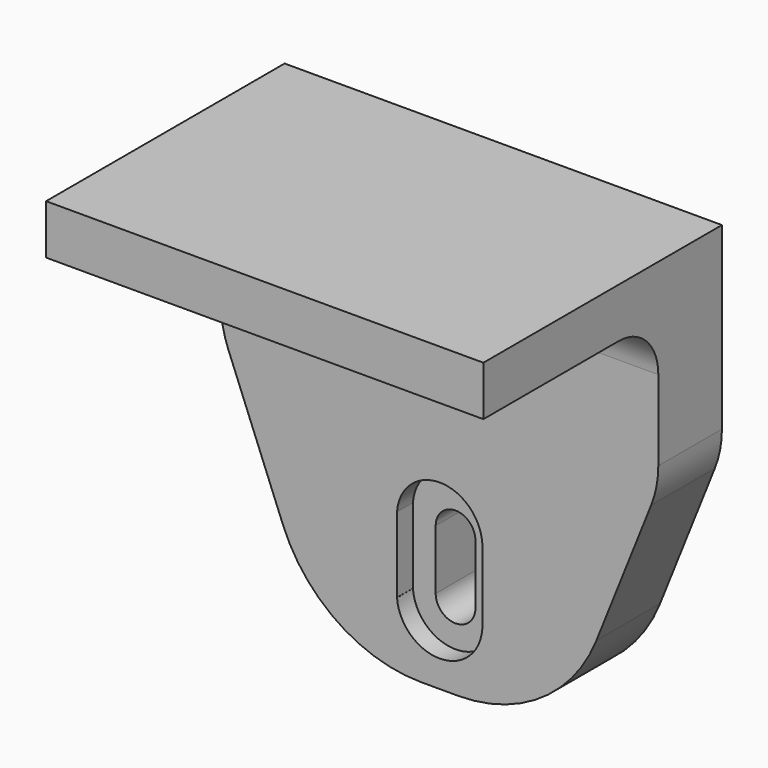
from build123d import *

# Parameters (mm, degrees)
BOX009_W                  = 8.6
BOX009_H                  = 14
BOX009_DEPTH              = 7.6
CYLINDER017_R             = 4.3
CYLINDER017_DEPTH         = 10
CYLINDER016_R             = 4.3
CYLINDER016_DEPTH         = 10
CYLINDER018_R             = 2
CYLINDER018_DEPTH         = 10
CYLINDER019_R             = 4.25
CYLINDER019_DEPTH         = 10
CYLINDER015_R             = 2
CYLINDER015_DEPTH         = 10
BOX008_W                  = 4
BOX008_H                  = 16
BOX008_DEPTH              = 6
BOX010_W                  = 15
BOX010_H                  = 8
BOX010_DEPTH              = 10
CYLINDER013_R             = 2
CYLINDER013_DEPTH         = 10
CYLINDER014_R             = 4.25
CYLINDER014_DEPTH         = 10
FUSION013_PLACEMENT_ANGLE = 180
CYLINDER010_R             = 4.25
CYLINDER010_DEPTH         = 10
CYLINDER011_R             = 2
CYLINDER011_DEPTH         = 10
CYLINDER012_R             = 4.25
CYLINDER012_DEPTH         = 10
EXTRUDE001_DEPTH          = 8
BOX007_W                  = 24
BOX007_H                  = 8
BOX007_DEPTH              = 45
BOX006_W                  = 44
BOX006_H                  = 8
BOX006_DEPTH              = 15
BOX005_W                  = 44
BOX005_H                  = 30
BOX005_DEPTH              = 5
FILLET003_R               = 5
FILLET005_R               = 15
FILLET004_R               = 10
CHAMFER004_SIZE           = 2.2
CHAMFER005_SIZE           = 2.2


with BuildPart() as cube009:
    # Box009 → Box009 (new body)
    with BuildSketch(Plane(origin=(17.7, 59, -33.3), x_dir=(1, 0, 0), z_dir=(0, 0, 1))):
        with Locations((4.3, 7)):
            Rectangle(BOX009_W, BOX009_H)
    extrude(amount=BOX009_DEPTH)


with BuildPart() as cylinder017:
    # Cylinder017 → Cylinder017 (new body)
    with BuildSketch(Plane(origin=(22, 73, -26), x_dir=(1, 0, 0), z_dir=(0, -1, 0))):
        Circle(CYLINDER017_R)
    extrude(amount=CYLINDER017_DEPTH)


with BuildPart() as obj1:
    # Cylinder016 → Cylinder016 (new body)
    with BuildSketch(Plane(origin=(22, 73, -33), x_dir=(1, 0, 0), z_dir=(0, -1, 0))):
        Circle(CYLINDER016_R)
    extrude(amount=CYLINDER016_DEPTH)

    # Fusion017: union Cube009, Cylinder017
    add(cube009.part)
    add(cylinder017.part)


with BuildPart() as obj1_1:
    # Fusion017 placement: moved
    add(obj1.part.moved(Location((0, 1, 0))))


with BuildPart() as cylinder018:
    # Cylinder018 → Cylinder018 (new body)
    with BuildSketch(Plane(origin=(22, 80, -33), x_dir=(1, 0, 0), z_dir=(0, -1, 0))):
        Circle(CYLINDER018_R)
    extrude(amount=CYLINDER018_DEPTH)


with BuildPart() as fusion018:
    # Cylinder019 → Cylinder019 (new body)
    with BuildSketch(Plane(origin=(22, 89, -33), x_dir=(1, 0, 0), z_dir=(0, -1, 0))):
        Circle(CYLINDER019_R)
    extrude(amount=CYLINDER019_DEPTH)

    # Fusion018: union Cylinder018
    add(cylinder018.part)


with BuildPart() as cylinder015:
    # Cylinder015 → Cylinder015 (new body)
    with BuildSketch(Plane(origin=(22, 80, -27), x_dir=(1, 0, 0), z_dir=(0, -1, 0))):
        Circle(CYLINDER015_R)
    extrude(amount=CYLINDER015_DEPTH)


with BuildPart() as obj2:
    # Box008 → Box008 (new body)
    with BuildSketch(Plane(origin=(20, 69, -33), x_dir=(1, 0, 0), z_dir=(0, 0, 1))):
        with Locations((2, 8)):
            Rectangle(BOX008_W, BOX008_H)
    extrude(amount=BOX008_DEPTH)

    # Fusion016: union Cylinder015
    add(cylinder015.part)

    # Fusion019: union Fusion018
    add(fusion018.part)


with BuildPart() as obj2_1:
    # Fusion019 placement: moved
    add(obj2.part.moved(Location((0, 2, 0))))


with BuildPart() as cube010:
    # Box010 → Box010 (new body)
    with BuildSketch(Plane(origin=(14, 72, -38), x_dir=(1, 0, 0), z_dir=(0, 0, 1))):
        with Locations((7.5, 4)):
            Rectangle(BOX010_W, BOX010_H)
    extrude(amount=BOX010_DEPTH)


with BuildPart() as cylinder013:
    # Cylinder013 → Cylinder013 (new body)
    with BuildSketch(Plane(origin=(22, 80, -33), x_dir=(1, 0, 0), z_dir=(0, -1, 0))):
        Circle(CYLINDER013_R)
    extrude(amount=CYLINDER013_DEPTH)


with BuildPart() as fusion013:
    # Cylinder014 → Cylinder014 (new body)
    with BuildSketch(Plane(origin=(22, 89, -33), x_dir=(1, 0, 0), z_dir=(0, -1, 0))):
        Circle(CYLINDER014_R)
    extrude(amount=CYLINDER014_DEPTH)

    # Fusion013: union Cylinder013
    add(cylinder013.part)


with BuildPart() as fusion013_1:
    # Fusion013 placement: moved
    add(fusion013.part.moved(Location((0, 152, -66))).rotate(Axis((0, 152, -66), (1, 0, 0)), FUSION013_PLACEMENT_ANGLE))


with BuildPart() as cylinder010:
    # Cylinder010 → Cylinder010 (new body)
    with BuildSketch(Plane(origin=(22, 80, -33), x_dir=(1, 0, 0), z_dir=(0, -1, 0))):
        Circle(CYLINDER010_R)
    extrude(amount=CYLINDER010_DEPTH)


with BuildPart() as cylinder011:
    # Cylinder011 → Cylinder011 (new body)
    with BuildSketch(Plane(origin=(22, 80, -33), x_dir=(1, 0, 0), z_dir=(0, -1, 0))):
        Circle(CYLINDER011_R)
    extrude(amount=CYLINDER011_DEPTH)


with BuildPart() as fusion010:
    # Cylinder012 → Cylinder012 (new body)
    with BuildSketch(Plane(origin=(22, 89, -33), x_dir=(1, 0, 0), z_dir=(0, -1, 0))):
        Circle(CYLINDER012_R)
    extrude(amount=CYLINDER012_DEPTH)

    # Fusion010: union Cylinder011
    add(cylinder011.part)


with BuildPart() as extrude001:
    # Sketch001 (on Face11 of Fusion012) → Extrude001 (new body)
    with BuildSketch(Plane(origin=(0, 80, 0), x_dir=(-1, 0, 0), z_dir=(0, 1, 0))):
        Polygon((-44, -15), (-34, -40), (-34, -15), align=None)
        Polygon((-10, -15), (0, -15), (-10, -40), align=None)
    extrude(amount=-EXTRUDE001_DEPTH)


with BuildPart() as cube007:
    # Box007 → Box007 (new body)
    with BuildSketch(Plane(origin=(10, 72, -40), x_dir=(1, 0, 0), z_dir=(0, 0, 1))):
        with Locations((12, 4)):
            Rectangle(BOX007_W, BOX007_H)
    extrude(amount=BOX007_DEPTH)


with BuildPart() as cube006:
    # Box006 → Box006 (new body)
    with BuildSketch(Plane(origin=(0, 72, -15), x_dir=(1, 0, 0), z_dir=(0, 0, 1))):
        with Locations((22, 4)):
            Rectangle(BOX006_W, BOX006_H)
    extrude(amount=BOX006_DEPTH)


with BuildPart() as cut007:
    # Box005 → Box005 (new body)
    with BuildSketch(Plane(origin=(0, 50, 0), x_dir=(1, 0, 0), z_dir=(0, 0, 1))):
        with Locations((22, 15)):
            Rectangle(BOX005_W, BOX005_H)
    extrude(amount=BOX005_DEPTH)

    # Fusion014: union Cube006
    add(cube006.part)

    # Fillet003
    fillet003_edges = [cut007.edges().sort_by_distance(p)[0] for p in [
        (22, 72, 0),
    ]]
    fillet(fillet003_edges, radius=FILLET003_R)

    # Fusion012: union Cube007
    add(cube007.part)

    # Fusion015: union Extrude001
    add(extrude001.part)

    # Fillet005
    fillet005_edges = [cut007.edges().sort_by_distance(p)[0] for p in [
        (10, 76, -40),
        (34, 76, -40),
    ]]
    fillet(fillet005_edges, radius=FILLET005_R)

    # Fillet004
    fillet004_edges = [cut007.edges().sort_by_distance(p)[0] for p in [
        (44, 76, -15),
        (0, 76, -15),
    ]]
    fillet(fillet004_edges, radius=FILLET004_R)

    # Cut004: cut Fusion010
    add(fusion010.part, mode=Mode.SUBTRACT)

    # Chamfer004
    chamfer004_edges = [cut007.edges().sort_by_distance(p)[0] for p in [
        (20, 79, -33),
    ]]
    chamfer(chamfer004_edges, length=CHAMFER004_SIZE)

    # Fusion011: union Cylinder010
    add(cylinder010.part)

    # Cut005: cut Fusion013
    add(fusion013_1.part, mode=Mode.SUBTRACT)

    # Chamfer005
    chamfer005_edges = [cut007.edges().sort_by_distance(p)[0] for p in [
        (20, 73, -33),
    ]]
    chamfer(chamfer005_edges, length=CHAMFER005_SIZE)

    # Fusion020: union Cube010
    add(cube010.part)

    # Cut006: cut obj2
    add(obj2_1.part, mode=Mode.SUBTRACT)

    # Cut007: cut obj1
    add(obj1_1.part, mode=Mode.SUBTRACT)


solid = cut007.part
